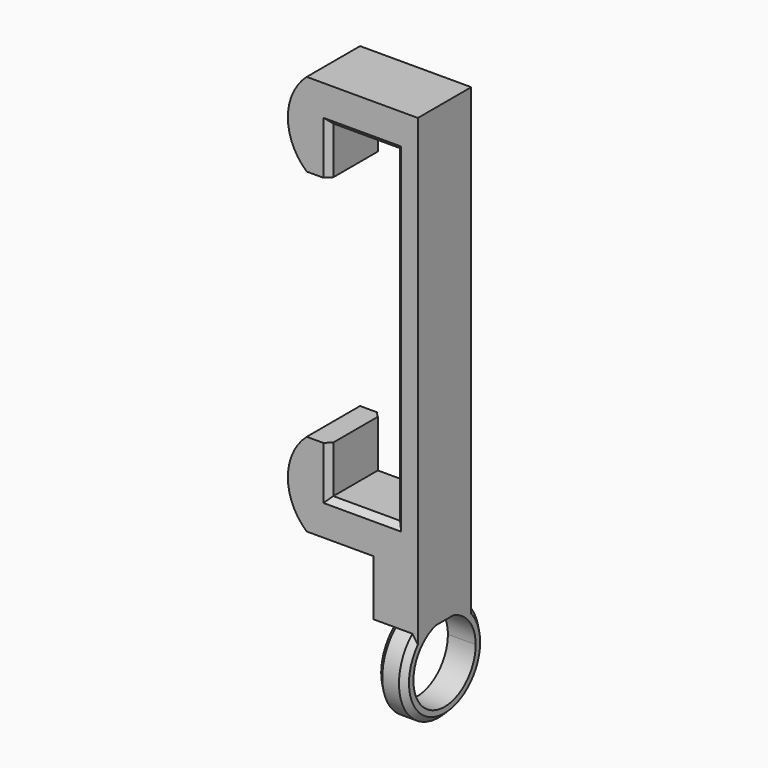
from build123d import *

# Parameters (mm, degrees)
F0_W     = 4
F0_H     = 5
F1_DEPTH = 3
F3_DEPTH = 2.5
F4_SIZE  = 0.5
F5_SIZE  = 0.5
F6_SIZE  = 0.5


with BuildPart() as f1:
    # F0 (on Front) → F1 (new body, symmetric)
    with BuildSketch(Plane.XZ):
        Polygon((6, 0), (10, 0), (10, 36), (0, 36), (0, 28.5), (2, 28.5), (2, 32.75), (8, 32.75), (8, 3.25), (2, 3.25), (2, 7.5), (0, 7.5), (0, 0), align=None)
        with BuildLine():
            ThreePointArc((0, 7.5), (-1.692811, 3.75), (0, 0))
            Line((0, 0), (0, 7.5))
        make_face()
        with BuildLine():
            Line((0, 28.5), (0, 36))
            ThreePointArc((0, 36), (-1.692811, 32.25), (0, 28.5))
        make_face()
        with Locations((8, -2.5)):
            Rectangle(F0_W, F0_H)
    extrude(amount=F1_DEPTH, both=True)

    # F2 (on face) → F3 (join)
    with BuildSketch(Plane.YZ.offset(10)):
        with BuildLine():
            ThreePointArc((-3, -5), (-1.837117, -12.462021), (4.5, -8.354102))
            ThreePointArc((4.5, -8.354102), (4.107919, -6.516985), (3, -5))
            Line((3, -5), (1, -5))
            ThreePointArc((1, -5), (2.806243, -6.262452), (3.5, -8.354102))
            ThreePointArc((3.5, -8.354102), (-2.09165, -11.160345), (-1, -5))
            Line((-1, -5), (-3, -5))
        make_face()
    extrude(amount=-F3_DEPTH)

    # F4
    f4_edges = [f1.edges().sort_by_distance(p)[0] for p in [
        (7.5, -1.837117, -12.462021),
    ]]
    chamfer(f4_edges, length=F4_SIZE)

    # F5
    f5_edges = [f1.edges().sort_by_distance(p)[0] for p in [
        (10, -1.837117, -12.462021),
    ]]
    chamfer(f5_edges, length=F5_SIZE)

    # F6
    f6_edges = [f1.edges().sort_by_distance(p)[0] for p in [
        (2, -3, 5.375),
        (5, -3, 3.25),
        (8, -3, 18),
        (2, -3, 30.625),
        (5, -3, 32.75),
        (2, 3, 5.375),
        (5, 3, 3.25),
        (8, 3, 18),
        (5, 3, 32.75),
        (2, 3, 30.625),
    ]]
    chamfer(f6_edges, length=F6_SIZE)


solid = f1.part
